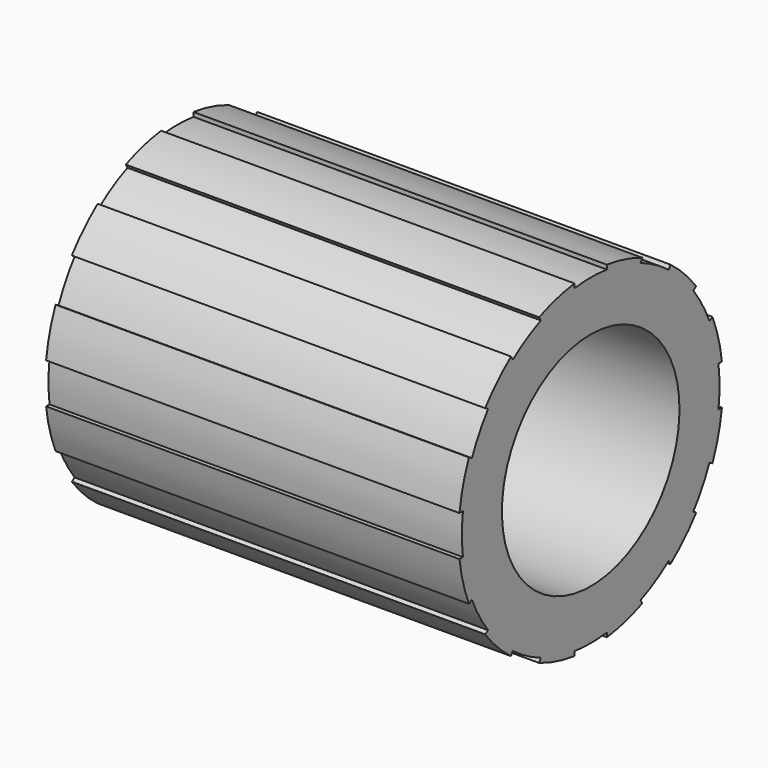
from build123d import *

# Parameters (mm, degrees)
F0_W     = 28.3845
F0_H     = 3.72745
F3_DEPTH = 28.3855
F4_COUNT = 12


with BuildPart() as f1:
    # F0 (on Front) → F1 (revolve)
    with BuildSketch(Plane.XZ):
        with Locations((-177.8664920464, -27.9698891753)):
            Rectangle(F0_W, F0_H)
    revolve(axis=Axis((-177.8664920464, 0, -37.4536141753), (1, 0, 0)))

    # F2 (on face) → F3 (cut, through all)
    with BuildSketch(Plane(origin=(-192.0587420464, 0, 0), x_dir=(0, -1, 0), z_dir=(-1, 0, 0))):
        with BuildLine():
            Line((1.39065, -26.4860777063), (1.39065, -26.1916998585))
            ThreePointArc((1.39065, -26.1916998585), (0, -26.1061641753), (-1.39065, -26.1916998585))
            Line((-1.39065, -26.1916998585), (-1.39065, -26.4860777063))
            ThreePointArc((-1.39065, -26.4860777063), (0, -26.3982641753), (1.39065, -26.4860777063))
        make_face()
    f3 = extrude(amount=-F3_DEPTH, mode=Mode.SUBTRACT)

    # F4: F3 ×12 about axis
    f4_axis = Axis((-163.6742420464, 0, -37.4536141753), (-1, 0, 0))
    for i in range(1, F4_COUNT):
        add(f3.rotate(f4_axis, i * 360 / F4_COUNT), mode=Mode.SUBTRACT)


solid = f1.part
